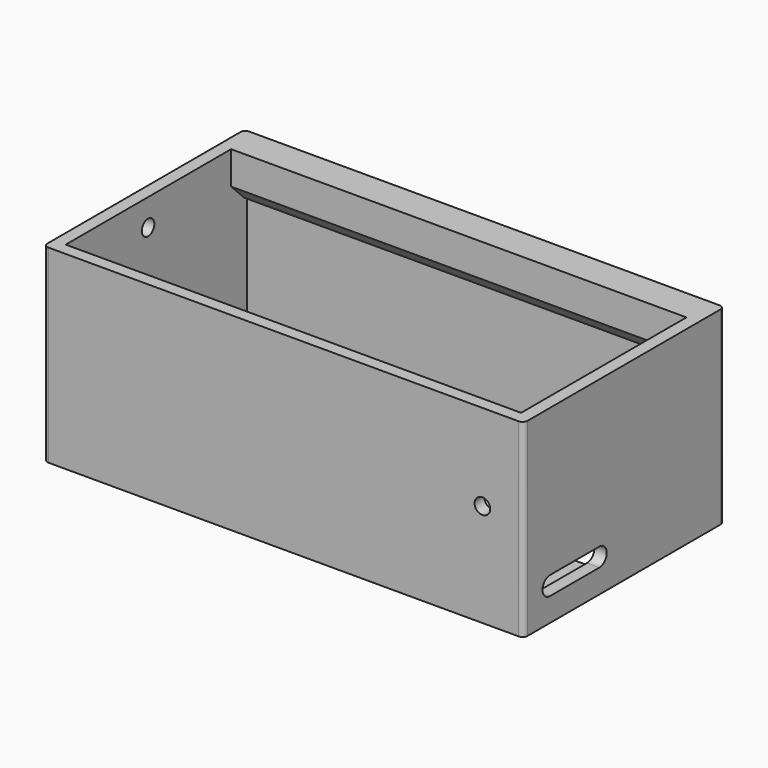
from build123d import *

# Parameters (mm, degrees)
F0_W      = 110.6
F0_H      = 55
F0_W_2    = 48.2
F0_H_2    = 28.8
F1_DEPTH  = 2.6
F2_W      = 116.6
F2_H      = 61
F2_W_2    = 110.6
F2_H_2    = 55
F3_DEPTH  = 46
F4_W      = 110.6
F4_H      = 12
F5_DEPTH  = 4.8
F6_SIZE   = 4
F8_D      = 3.8
F8_DEPTH  = 15
F10_D     = 3.8
F10_DEPTH = 15
F12_DEPTH = 120
F13_R     = 1.2


with BuildPart() as f1:
    # F0 (on Top) → F1 (new body)
    with BuildSketch(Plane.XY):
        Rectangle(F0_W, F0_H)
        with Locations((28, 11)):
            Rectangle(F0_W_2, F0_H_2, mode=Mode.SUBTRACT)
    extrude(amount=F1_DEPTH)

    # F2 (on Top) → F3 (join)
    with BuildSketch(Plane.XY):
        Rectangle(F2_W, F2_H)
        Rectangle(F2_W_2, F2_H_2, mode=Mode.SUBTRACT)
    extrude(amount=F3_DEPTH)

    # F4 (on face) → F5 (join)
    with BuildSketch(Plane.XZ.offset(-27.5)):
        with Locations((0, 40)):
            Rectangle(F4_W, F4_H)
    extrude(amount=F5_DEPTH)

    # F6
    f6_edges = [f1.edges().sort_by_distance(p)[0] for p in [
        (0, 22.7, 34),
    ]]
    chamfer(f6_edges, length=F6_SIZE)

    # F8
    with Locations(Plane.XZ.offset(30.5)):
        with Locations((48.3, 25)):
            Hole(F8_D / 2, depth=F8_DEPTH)

    # F10
    with Locations(Plane(origin=(-58.3, 0, 0), x_dir=(0, -1, 0), z_dir=(-1, 0, 0))):
        with Locations((2.5, 39.5)):
            Hole(F10_D / 2, depth=F10_DEPTH)

    # F11 (on face) → F12 (cut)
    with BuildSketch(Plane(origin=(-58.3, 0, 0), x_dir=(0, -1, 0), z_dir=(-1, 0, 0))):
        with BuildLine():
            Line((7.5, 5.75), (22.5, 5.75))
            ThreePointArc((22.5, 5.75), (24.75, 8), (22.5, 10.25))
            Line((22.5, 10.25), (7.5, 10.25))
            ThreePointArc((7.5, 10.25), (5.25, 8), (7.5, 5.75))
        make_face()
    extrude(amount=-F12_DEPTH, mode=Mode.SUBTRACT)

    # F13
    f13_edges = [f1.edges().sort_by_distance(p)[0] for p in [
        (58.3, 30.5, 23),
        (58.3, -30.5, 23),
        (-58.3, -30.5, 23),
        (-58.3, 30.5, 23),
    ]]
    fillet(f13_edges, radius=F13_R)


solid = f1.part
